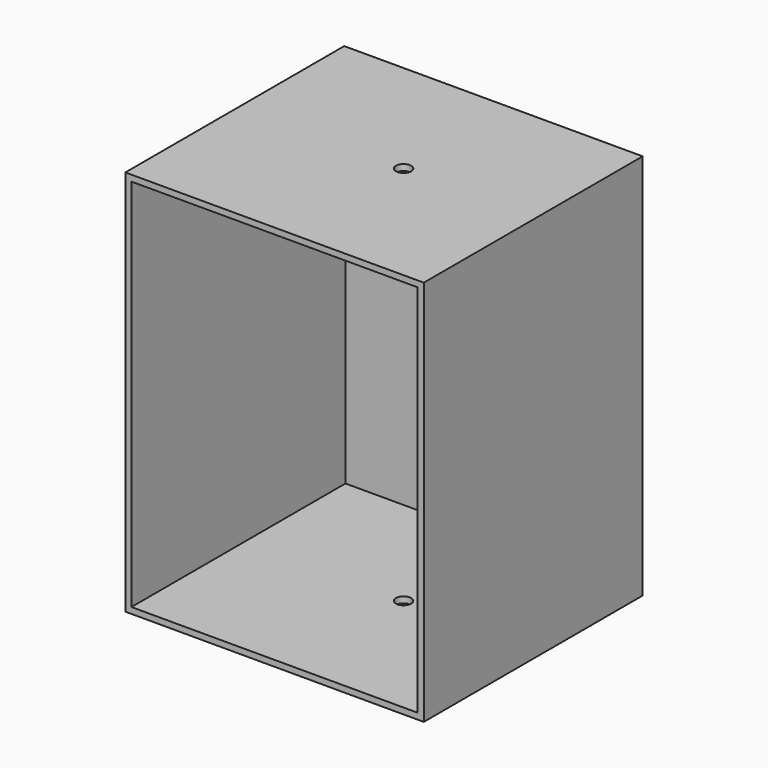
from build123d import *

# Parameters (mm, degrees)
F0_W     = 98.006491
F0_H     = 89.854028
F1_DEPTH = 127
F3_W     = 96.006491
F3_H     = 87.854028
F4_DEPTH = 84.733695
F5_T     = -2
F7_D     = 5


with BuildPart() as f1:
    # F0 (on Top) → F1 (new body)
    with BuildSketch(Plane.XY):
        with Locations((-21.314843, 14.810821)):
            Rectangle(F0_W, F0_H)
    extrude(amount=F1_DEPTH)

    # F3 (on face) → F4 (join)
    with BuildSketch(Plane.XY.offset(127)):
        with Locations((-21.314843, 14.810821)):
            Rectangle(F3_W, F3_H)
    extrude(amount=-F4_DEPTH)

    # F5
    f5_openings = [f1.faces().sort_by_distance(p)[0] for p in [
        (-21.314843, -30.116193, 63.5),
    ]]
    offset(amount=F5_T, openings=f5_openings)

    # F7 (through all)
    with Locations(Plane.XY.offset(127)):
        with Locations((-15.962919, 16.145797)):
            Hole(F7_D / 2)


solid = f1.part
